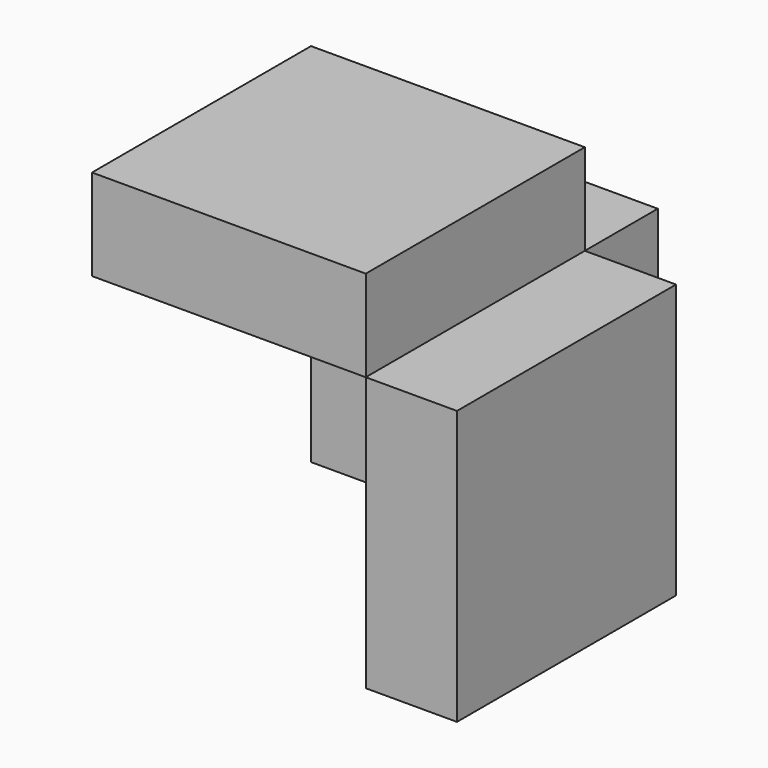
from build123d import *

# Parameters (mm, degrees)
F3_DEPTH = 25
F1_W     = 75.043403
F1_H     = 75.043403
F4_DEPTH = 25
F0_W     = 75.043403
F0_H     = 75.043403
F5_DEPTH = 25


with BuildPart() as f3:
    # F2 (on Front) → F3 (new body)
    with BuildSketch(Plane.XZ):
        Polygon((0, -75.043403), (0, 0), (-75.042592, 0), (-75.042592, -75.392112), (0, -75.392112), align=None)
    extrude(amount=-F3_DEPTH)


with BuildPart() as f4:
    # F1 (on Right) → F4 (new body)
    with BuildSketch(Plane.YZ):
        with Locations((-37.521701, -37.521701)):
            Rectangle(F1_W, F1_H)
    extrude(amount=F4_DEPTH)


with BuildPart() as f5:
    # F0 (on Top) → F5 (new body)
    with BuildSketch(Plane.XY):
        with Locations((-37.521701, -37.521701)):
            Rectangle(F0_W, F0_H)
    extrude(amount=F5_DEPTH)


solid = Compound([f3.part, f4.part, f5.part])
